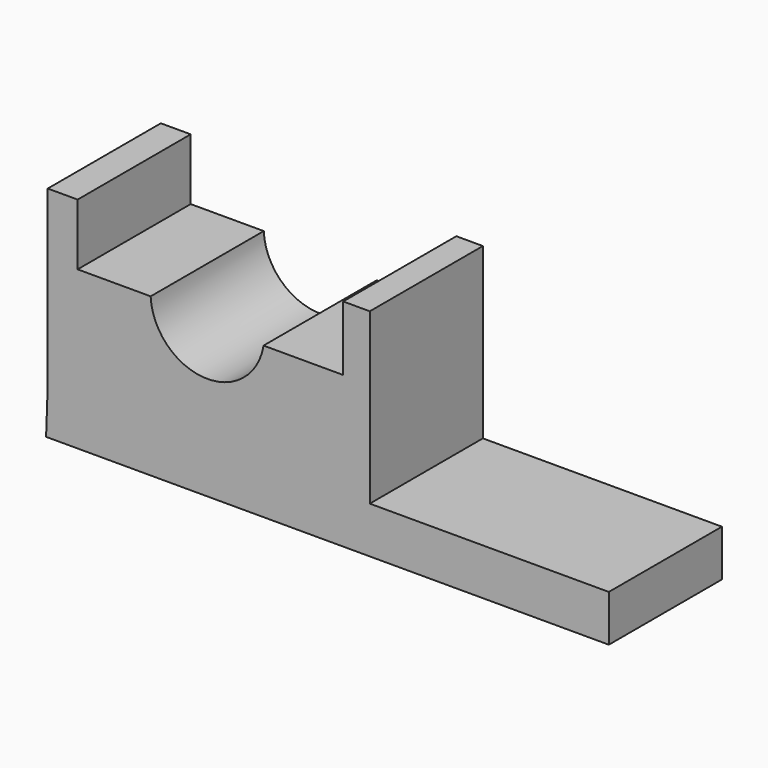
from build123d import *

# Parameters (mm, degrees)
F1_DEPTH = 25


with BuildPart() as f1:
    # F0 (on Front) → F1 (new body)
    with BuildSketch(Plane.XZ):
        with BuildLine():
            Line((-58.282513, 56.667637), (-63.567579, 56.667637))
            Line((-63.567579, 56.667637), (-63.567579, 38.463522))
            Line((-63.567579, 38.463522), (-63.567579, 26.131706))
            Line((-63.567579, 26.131706), (-6.60633, 26.131706))
            Line((-6.60633, 26.131706), (-6.60633, 37.582681))
            Line((-6.60633, 37.582681), (-6.60633, 56.080405))
            Line((-6.60633, 56.080405), (-11.304165, 56.080405))
            Line((-11.304165, 56.080405), (-11.304165, 44.629429))
            Line((-11.304165, 44.629429), (-25.39767, 44.629429))
            ThreePointArc((-25.39767, 44.629429), (-35.909438, 36.22593), (-45.363471, 45.80389))
            Line((-45.363471, 45.80389), (-58.282513, 45.80389))
            Line((-58.282513, 45.80389), (-58.282513, 56.667637))
        make_face()
        Polygon((-6.60633, 26.131706), (-63.567579, 26.131706), (-63.861191, 17.910495), (35.674185, 17.910495), (35.674185, 26.131706), align=None)
    extrude(amount=F1_DEPTH)


solid = f1.part
